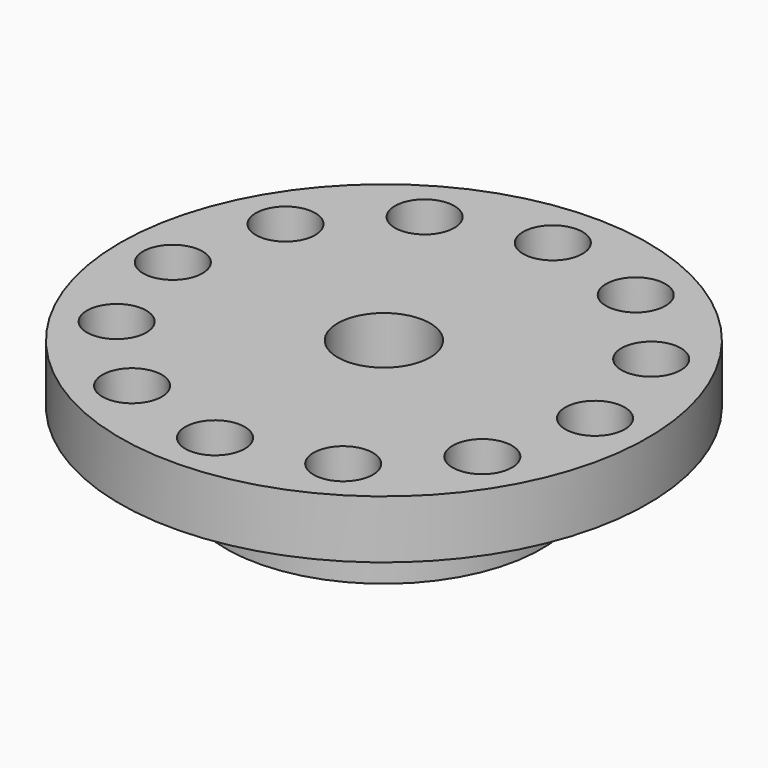
from build123d import *

# Parameters (mm, degrees)
F3_D           = 6.6
F3_DEPTH       = 35
F3_CBORE_D     = 11.25
F3_CBORE_DEPTH = 6
F3_TIP         = 1.9828400428
F5_D           = 17.5
F5_DEPTH       = 39.5
F5_TIP         = 5.2575304165


with BuildPart() as f1:
    # F0 (on Front) → F1 (revolve)
    with BuildSketch(Plane.XZ):
        Polygon((-29.9, 14), (-29.9, 0), (0, 0), (0, 25), (-49.95, 25), (-49.95, 14), align=None)
    revolve(axis=Axis((0, 0, 12.5), (0, 0, -1)))

    # F3
    with Locations(Plane.XY.offset(25)):
        with Locations((19.975, -34.5977148812), (39.95, 0), (34.5977148812, 19.975), (34.5977148812, -19.975), (19.975, 34.5977148812), (0, 39.95), (-19.975, 34.5977148812), (-34.5977148812, 19.975), (-39.95, 0), (-34.5977148812, -19.975), (-19.975, -34.5977148812), (0, -39.95)):
            CounterBoreHole(F3_D / 2, F3_CBORE_D / 2, F3_CBORE_DEPTH, depth=F3_DEPTH)
            with Locations((0, 0, -(F3_DEPTH + F3_TIP / 2))):  # 118° drill point
                Cone(0, F3_D / 2, F3_TIP, mode=Mode.SUBTRACT)

    # F5
    with Locations(Plane.XY.offset(25)):
        with Locations((0, 0)):
            Hole(F5_D / 2, depth=F5_DEPTH)
            with Locations((0, 0, -(F5_DEPTH + F5_TIP / 2))):  # 118° drill point
                Cone(0, F5_D / 2, F5_TIP, mode=Mode.SUBTRACT)


solid = f1.part
